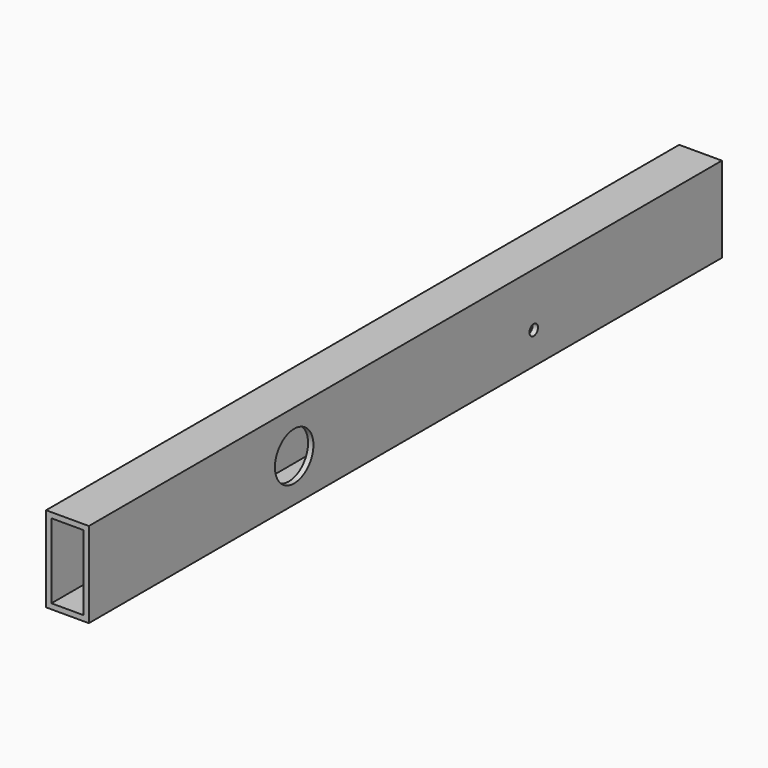
from build123d import *

# Parameters (mm, degrees)
F0_W     = 25.4
F0_H     = 50.8
F0_W_2   = 19.05
F0_H_2   = 44.45
F1_DEPTH = 469.9
F2_R     = 14.2875
F2_R_2   = 3.175
F3_DEPTH = 25.4


with BuildPart() as f1:
    # F0 (on Front) → F1 (new body)
    with BuildSketch(Plane.XZ):
        Rectangle(F0_W, F0_H)
        Rectangle(F0_W_2, F0_H_2, mode=Mode.SUBTRACT)
    extrude(amount=F1_DEPTH)

    # F2 (on face) → F3 (cut)
    with BuildSketch(Plane.YZ.offset(12.7)):
        with Locations((-317.5, 0)):
            Circle(F2_R)
        with Locations((-139.7, -6.35)):
            Circle(F2_R_2)
    extrude(amount=-F3_DEPTH, mode=Mode.SUBTRACT)


solid = f1.part
